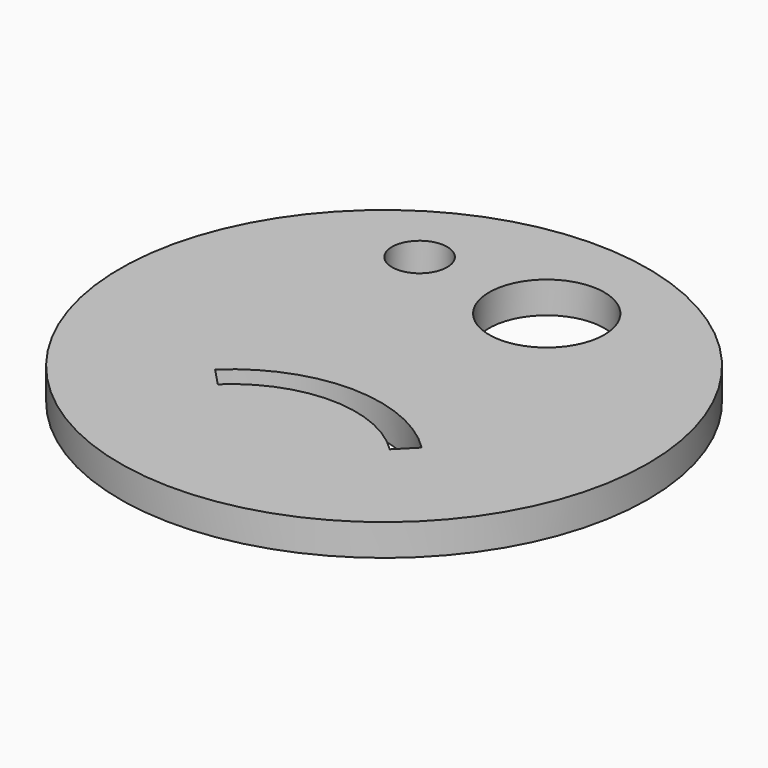
from build123d import *

# Parameters (mm, degrees)
F0_R     = 26.670422
F0_R_2   = 2.787336
F0_R_3   = 5.815416
F1_DEPTH = 3.187085


with BuildPart() as f1:
    # F0 (on Top) → F1 (new body)
    with BuildSketch(Plane.XY):
        with Locations((-45.557671, 22.620126)):
            Circle(F0_R)
        with BuildLine():
            ThreePointArc((-55.601084, 13.831816), (-45.017825, 17.981395), (-34.531254, 13.593204))
            Line((-34.531254, 13.593204), (-36.319946, 11.789824))
            ThreePointArc((-36.319946, 11.789824), (-45.046588, 15.441558), (-53.853692, 11.98839))
            Line((-53.853692, 11.98839), (-55.601084, 13.831816))
        make_face(mode=Mode.SUBTRACT)
        with Locations((-55.006717, 38.917444)):
            Circle(F0_R_2, mode=Mode.SUBTRACT)
        with Locations((-41.144012, 37.642713)):
            Circle(F0_R_3, mode=Mode.SUBTRACT)
    extrude(amount=F1_DEPTH)


solid = f1.part
